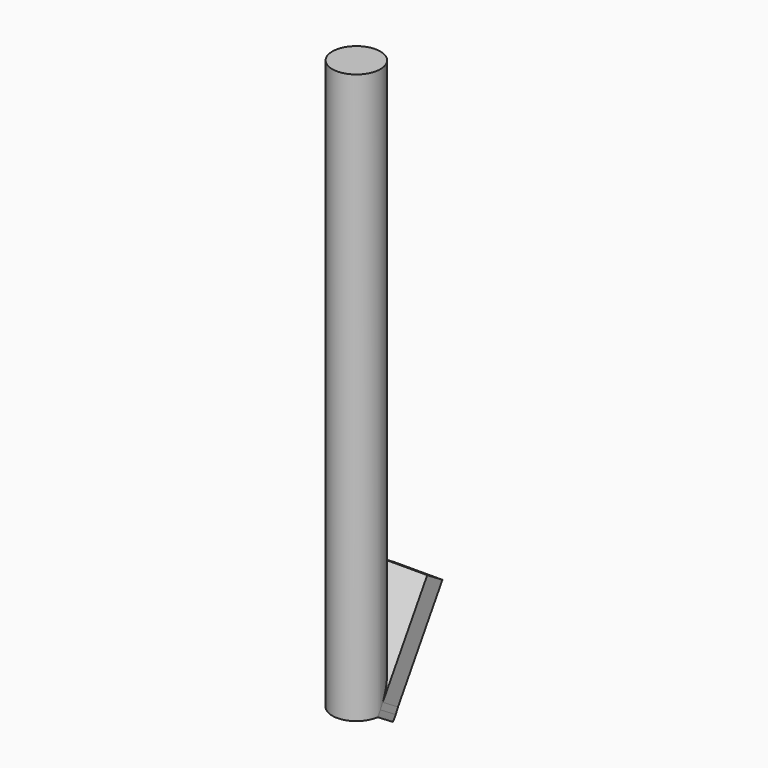
from build123d import *

# Parameters (mm, degrees)
F0_R     = 32.1759742661
F1_DEPTH = 762
F3_DEPTH = 146.558
F5_DEPTH = 29.972
F6_DEPTH = 30.226


with BuildPart() as f1:
    # F0 (on Top) → F1 (new body)
    with BuildSketch(Plane.XY):
        with Locations((-58.0132268369, -56.8779930472)):
            Circle(F0_R)
    extrude(amount=F1_DEPTH)

    # F2 (on Right) → F3 (cut)
    with BuildSketch(Plane.YZ):
        Polygon((13.2061298937, 119.7934225202), (-61.2327568233, 0), (13.2061298937, 0), align=None)
    extrude(amount=-F3_DEPTH, mode=Mode.SUBTRACT)


with BuildPart() as f5:
    # F4 (on face) → F5 (new body)
    with BuildSketch(Plane(origin=(0, -44.1753277783, 27.4502735709), x_dir=(-1, 0, 0), z_dir=(0, 0.8493720857, -0.5277945244))):
        with BuildLine():
            Line((26.1333060022, 125.0323653221), (26.1333060022, -15.816574645))
            add(Edge.make_bspline(
                [(26.1333060022, -15.816574645), (30.202068166, 40.6186237964), (60.1956346345, 36.7552322349), (86.3457649102, 33.3869034719), (89.8931476716, -15.816574645)],
                knots=[1.718887012, 1.718887012, 1.718887012, 3.2094720169, 3.2094720169, 4.5589604325, 4.5589604325, 4.5589604325], degree=2, weights=[0.947833532, 0.7113798115, 1, 0.738700175, 0.9077735947]))
            Line((89.8931476716, -15.816574645), (89.8931476716, 125.0323653221))
            Line((89.8931476716, 125.0323653221), (26.1333060022, 125.0323653221))
        make_face()
    extrude(amount=F5_DEPTH)


with BuildPart() as f6:
    # F6 (new): a face of the model
    f6_faces = [f1.part.faces().sort_by_distance(p)[0] for p in [
        (-58.0132268369, -45.5428924502, 25.2494715468),
    ]]
    extrude(f6_faces, amount=F6_DEPTH)


solid = Compound([f1.part, f5.part, f6.part])
